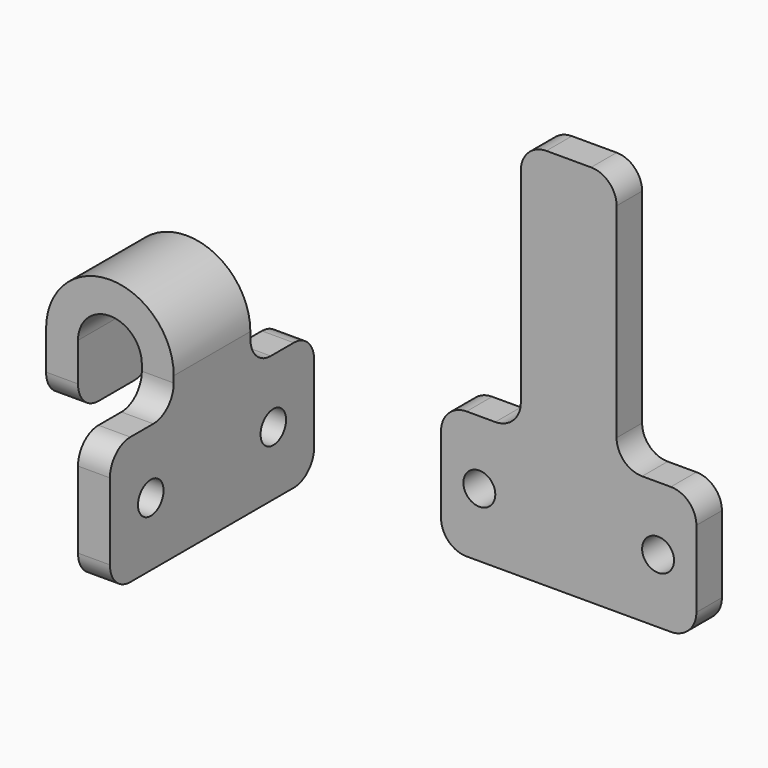
from build123d import *

# Parameters (mm, degrees)
F0_R      = 1.5875
F1_DEPTH  = 3.175
F3_DEPTH  = 25.4
F4_W      = 65.2850472093
F4_H      = 58.7823774338
F5_DEPTH  = 12.7
F7_DEPTH  = 6.35
F8_R      = 2.54
F9_R      = 1.5875
F10_DEPTH = 25.4


with BuildPart() as f1:
    # F0 (on Front) → F1 (new body)
    with BuildSketch(Plane.XZ):
        with BuildLine():
            Line((-10.16, -6.35), (10.16, -6.35))
            ThreePointArc((10.16, -6.35), (11.9560512242, -5.6060512242), (12.7, -3.81))
            Line((12.7, -3.81), (12.7, 3.81))
            ThreePointArc((12.7, 3.81), (11.9560512242, 5.6060512242), (10.16, 6.35))
            Line((10.16, 6.35), (7.3025, 6.35))
            ThreePointArc((7.3025, 6.35), (5.5064487758, 7.0939487758), (4.7625, 8.89))
            Line((4.7625, 8.89), (4.7625, 29.21))
            ThreePointArc((4.7625, 29.21), (4.0185512242, 31.0060512242), (2.2225, 31.75))
            Line((2.2225, 31.75), (-2.2225, 31.75))
            ThreePointArc((-2.2225, 31.75), (-4.0185512242, 31.0060512242), (-4.7625, 29.21))
            Line((-4.7625, 29.21), (-4.7625, 8.89))
            ThreePointArc((-4.7625, 8.89), (-5.5064487758, 7.0939487758), (-7.3025, 6.35))
            Line((-7.3025, 6.35), (-10.16, 6.35))
            ThreePointArc((-10.16, 6.35), (-11.9560512242, 5.6060512242), (-12.7, 3.81))
            Line((-12.7, 3.81), (-12.7, -3.81))
            ThreePointArc((-12.7, -3.81), (-11.9560512242, -5.6060512242), (-10.16, -6.35))
        make_face()
        with Locations((-8.89, 0)):
            Circle(F0_R, mode=Mode.SUBTRACT)
        with Locations((8.89, 0)):
            Circle(F0_R, mode=Mode.SUBTRACT)
    extrude(amount=F1_DEPTH)


with BuildPart() as f3:
    # F2 (on Front) → F3 (new body)
    with BuildSketch(Plane.XZ):
        with BuildLine():
            Line((-31.0354243457, -6.35), (-27.8604243457, -6.35))
            Line((-27.8604243457, -6.35), (-27.8604243457, 6.35))
            Line((-27.8604243457, 6.35), (-27.8604243457, 9.525))
            ThreePointArc((-27.8604243457, 9.525), (-34.2104243457, 15.875), (-40.5604243457, 9.525))
            Line((-40.5604243457, 9.525), (-40.5604243457, 3.175))
            Line((-40.5604243457, 3.175), (-37.3854243457, 3.175))
            Line((-37.3854243457, 3.175), (-37.3854243457, 9.525))
            ThreePointArc((-37.3854243457, 9.525), (-34.2104243457, 12.7), (-31.0354243457, 9.525))
            Line((-31.0354243457, 9.525), (-31.0354243457, 6.35))
            Line((-31.0354243457, 6.35), (-31.0354243457, -6.35))
        make_face()
    extrude(amount=F3_DEPTH)

    # F4 (on face) → F5 (cut, symmetric)
    with BuildSketch(Plane(origin=(-31.0354243457, 0, 0), x_dir=(0, -1, 0), z_dir=(-1, 0, 0))):
        with Locations((12.7, 6.35)):
            Rectangle(F4_W, F4_H)
        Polygon((7.9375, -6.35), (2.54, -6.35), (0, -6.35), (0, -3.81), (0, 3.81), (0, 9.525), (7.9375, 9.525), (7.9375, 19.05), (17.4625, 19.05), (17.4625, 9.525), (25.4, 9.525), (25.4, 3.81), (25.4, -3.81), (25.4, -6.35), (22.86, -6.35), (17.4625, -6.35), align=None, mode=Mode.SUBTRACT)
        with BuildLine():
            Line((0, 9.525), (0, 3.81))
            ThreePointArc((0, 3.81), (0.7439487758, 5.6060512242), (2.54, 6.35))
            Line((2.54, 6.35), (7.9375, 6.35))
            Line((7.9375, 6.35), (7.9375, 9.525))
            Line((7.9375, 9.525), (0, 9.525))
        make_face()
        with BuildLine():
            ThreePointArc((22.86, 6.35), (24.6560512242, 5.6060512242), (25.4, 3.81))
            Line((25.4, 3.81), (25.4, 9.525))
            Line((25.4, 9.525), (17.4625, 9.525))
            Line((17.4625, 9.525), (17.4625, 6.35))
            Line((17.4625, 6.35), (22.86, 6.35))
        make_face()
    extrude(amount=F5_DEPTH, both=True, mode=Mode.SUBTRACT)

    # F6 (on face) → F7 (cut)
    with BuildSketch(Plane(origin=(-40.5604243457, 0, 0), x_dir=(0, -1, 0), z_dir=(-1, 0, 0))):
        with BuildLine():
            Line((0, 3.175), (10.4775, 3.175))
            ThreePointArc((10.4775, 3.175), (8.6814487758, 3.9189487758), (7.9375, 5.715))
            Line((7.9375, 5.715), (7.9375, 6.35))
            Line((7.9375, 6.35), (2.54, 6.35))
            ThreePointArc((2.54, 6.35), (0.7439487758, 5.6060512242), (0, 3.81))
            Line((0, 3.81), (0, 3.175))
        make_face()
        with BuildLine():
            ThreePointArc((17.4625, 5.715), (16.7185512242, 3.9189487758), (14.9225, 3.175))
            Line((14.9225, 3.175), (25.4, 3.175))
            Line((25.4, 3.175), (25.4, 3.81))
            ThreePointArc((25.4, 3.81), (24.6560512242, 5.6060512242), (22.86, 6.35))
            Line((22.86, 6.35), (17.4625, 6.35))
            Line((17.4625, 6.35), (17.4625, 5.715))
        make_face()
    extrude(amount=-F7_DEPTH, mode=Mode.SUBTRACT)

    # F8
    f8_edges = [f3.edges().sort_by_distance(p)[0] for p in [
        (-29.447924, -7.9375, 6.35),
        (-29.447924, -17.4625, 6.35),
        (-29.447924, -25.4, -6.35),
        (-29.447924, 0, -6.35),
    ]]
    fillet(f8_edges, radius=F8_R)

    # F9 (on face) → F10 (cut)
    with BuildSketch(Plane(origin=(-31.0354243457, 0, 0), x_dir=(0, -1, 0), z_dir=(-1, 0, 0))):
        with Locations((5.08, 0)):
            Circle(F9_R)
        with Locations((20.32, 0)):
            Circle(F9_R)
    extrude(amount=-F10_DEPTH, mode=Mode.SUBTRACT)


solid = Compound([f1.part, f3.part])
